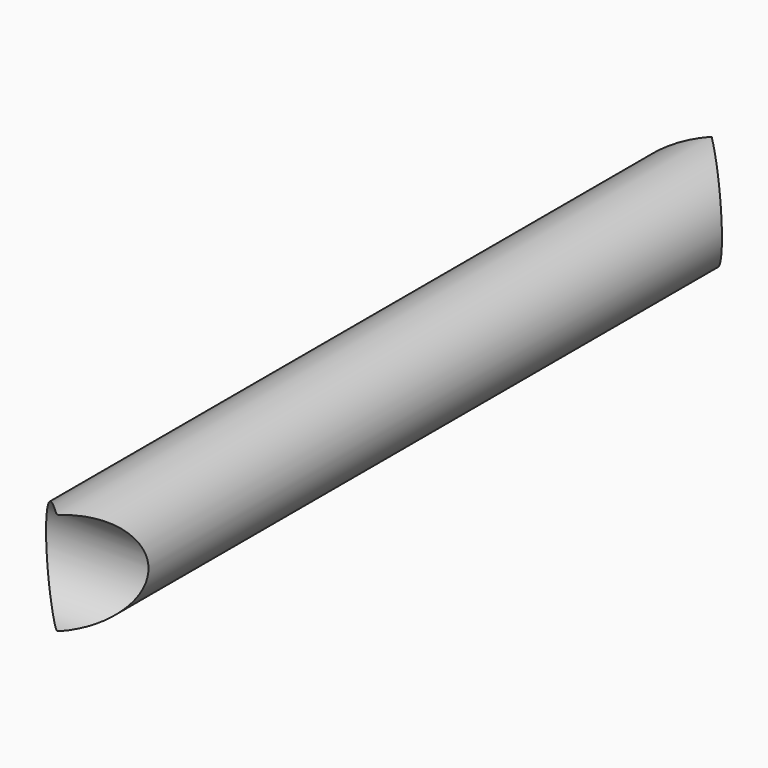
from build123d import *

# Parameters (mm, degrees)
F0_R     = 12.7
F1_DEPTH = 203.2
F4_R     = 12.7041589251
F5_DEPTH = 25.4
F8_R     = 12.7
F9_DEPTH = 25.4


with BuildPart() as f1:
    # F0 (on Front) → F1 (new body)
    with BuildSketch(Plane.XZ):
        Circle(F0_R)
    extrude(amount=F1_DEPTH)

    # F4 (on line) → F5 (cut)
    with BuildSketch(Plane(origin=(-12.7, 0, 0), x_dir=(0, -1, 0), z_dir=(-1, 0, 0))):
        with Locations((203.1819522381, 0)):
            Circle(F4_R)
    extrude(amount=-F5_DEPTH, mode=Mode.SUBTRACT)

    # F8 (on line) → F9 (cut)
    with BuildSketch(Plane(origin=(12.7, 0, 0), x_dir=(0, -1, 0), z_dir=(-1, 0, 0))):
        Circle(F8_R)
    extrude(amount=F9_DEPTH, mode=Mode.SUBTRACT)


solid = f1.part
